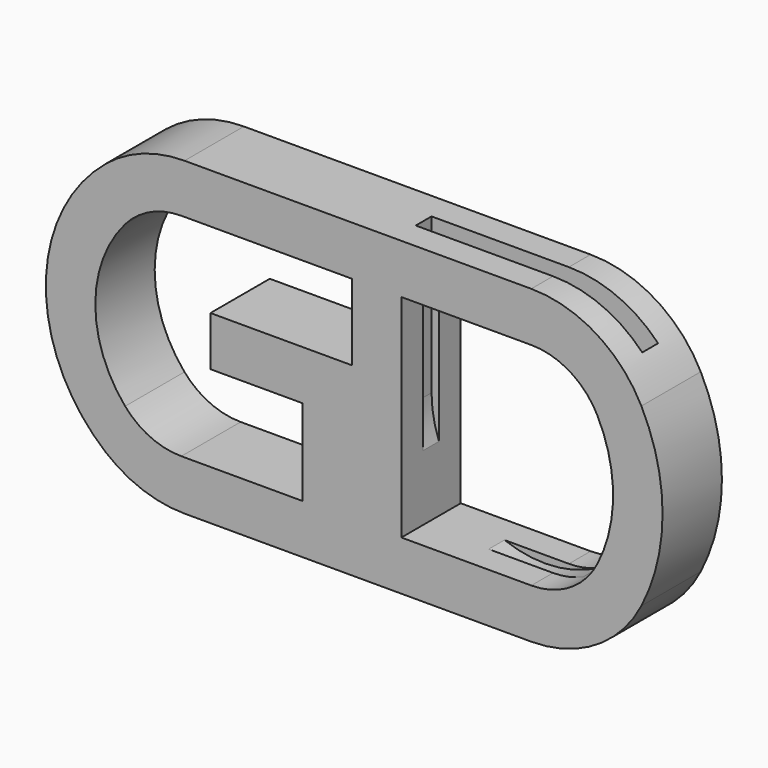
from build123d import *

# Parameters (mm, degrees)
F1_DEPTH = 7.5
F3_DEPTH = 7.5
F4_R     = 15
F5_R     = 25
F7_DEPTH = 2


with BuildPart() as f1:
    # F0 (on Front) → F1 (new body, symmetric)
    with BuildSketch(Plane.XZ):
        with BuildLine():
            Line((15.571662, 31.4), (-31.4, 31.4))
            Line((-31.4, 31.4), (-31.4, -31.016811))
            ThreePointArc((-31.4, -31.016811), (-31.146187, -31.209444), (-30.890811, -31.4))
            Line((-30.890811, -31.4), (15.571662, -31.4))
            ThreePointArc((15.571662, -31.4), (31.4, 0), (15.571662, 31.4))
        make_face()
        with BuildLine():
            Line((-21.4, -21.4), (-21.4, 21.4))
            Line((-21.4, 21.4), (12, 21.4))
            ThreePointArc((12, 21.4), (21.4, 0), (12, -21.4))
            Line((12, -21.4), (-21.4, -21.4))
        make_face(mode=Mode.SUBTRACT)
        with BuildLine():
            ThreePointArc((-30.890811, -31.4), (-31.146187, -31.209444), (-31.4, -31.016811))
            Line((-31.4, -31.016811), (-31.4, -31.4))
            Line((-31.4, -31.4), (-30.890811, -31.4))
        make_face()
    extrude(amount=F1_DEPTH, both=True)

    # F2 (on Front) → F3 (join, symmetric)
    with BuildSketch(Plane.XZ):
        with BuildLine():
            ThreePointArc((-71, 31.4), (-93.271008, 0), (-71, -31.4))
            Line((-71, -31.4), (-31.4, -31.4))
            Line((-31.4, -31.4), (-31.4, 6))
            Line((-31.4, 6), (-60, 6))
            Line((-60, 6), (-60, -4))
            Line((-60, -4), (-41.4, -4))
            Line((-41.4, -4), (-41.4, -21.4))
            Line((-41.4, -21.4), (-71, -21.4))
            ThreePointArc((-71, -21.4), (-83.271008, 0), (-71, 21.4))
            Line((-71, 21.4), (-31.4, 21.4))
            Line((-31.4, 21.4), (-31.4, 31.4))
            Line((-31.4, 31.4), (-71, 31.4))
        make_face()
    extrude(amount=F3_DEPTH, both=True)

    # F4
    f4_edges = [f1.edges().sort_by_distance(p)[0] for p in [
        (-71, 0, 21.4),
        (-71, 0, -21.4),
        (12, 0, -21.4),
        (12, 0, 21.4),
    ]]
    fillet(f4_edges, radius=F4_R)

    # F5
    f5_edges = [f1.edges().sort_by_distance(p)[0] for p in [
        (-71, 0, 31.4),
        (-71, 0, -31.4),
        (15.571662, 0, -31.4),
        (15.571662, 0, 31.4),
    ]]
    fillet(f5_edges, radius=F5_R)

    # F6 (on Front) → F7 (cut, symmetric)
    with BuildSketch(Plane.XZ):
        with BuildLine():
            Line((-22.9, 35.188502), (-22.9, 0))
            ThreePointArc((-22.9, 0), (0, -22.9), (22.9, 0))
            Line((22.9, 0), (22.9, 35.188502))
            Line((22.9, 35.188502), (-22.9, 35.188502))
        make_face()
    extrude(amount=F7_DEPTH, both=True, mode=Mode.SUBTRACT)


solid = f1.part
